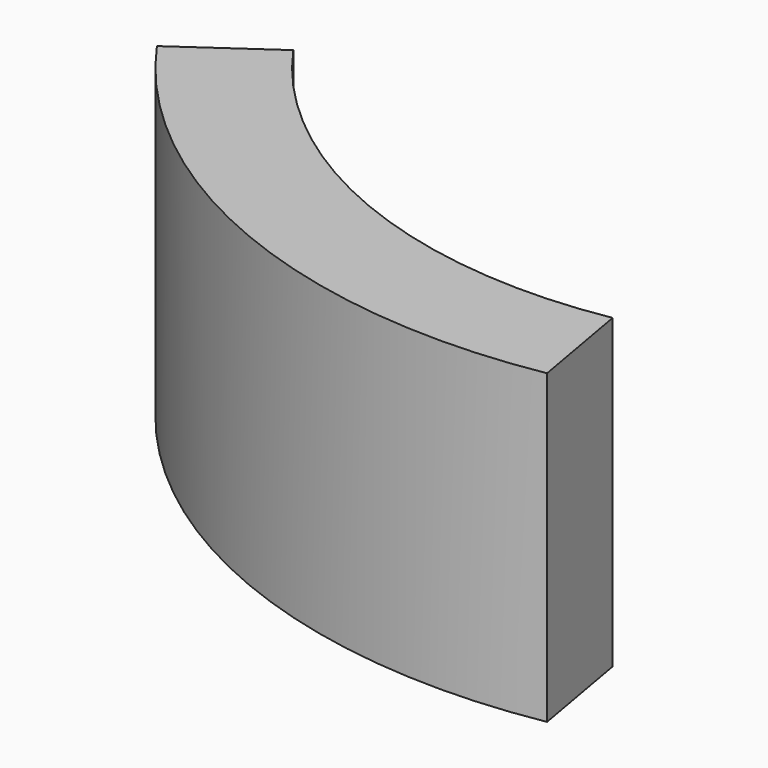
from build123d import *

# Parameters (mm, degrees)
F0_W          = 5.9182
F0_H          = 17.018
F2_ANGLE_BACK = 55
F2_ANGLE      = 65


with BuildPart() as f2:
    # F0 (on Right) → F2 (revolve)
    with BuildSketch(Plane.YZ, mode=Mode.PRIVATE) as f2_sk:
        with Locations((-29.6291, 8.509)):
            Rectangle(F0_W, F0_H)
    revolve(f2_sk.sketch.rotate(Axis((0, 0, 27.2184088826), (0, 0, 1)), -F2_ANGLE_BACK), axis=Axis((0, 0, 27.2184088826), (0, 0, 1)), revolution_arc=F2_ANGLE)


solid = f2.part
